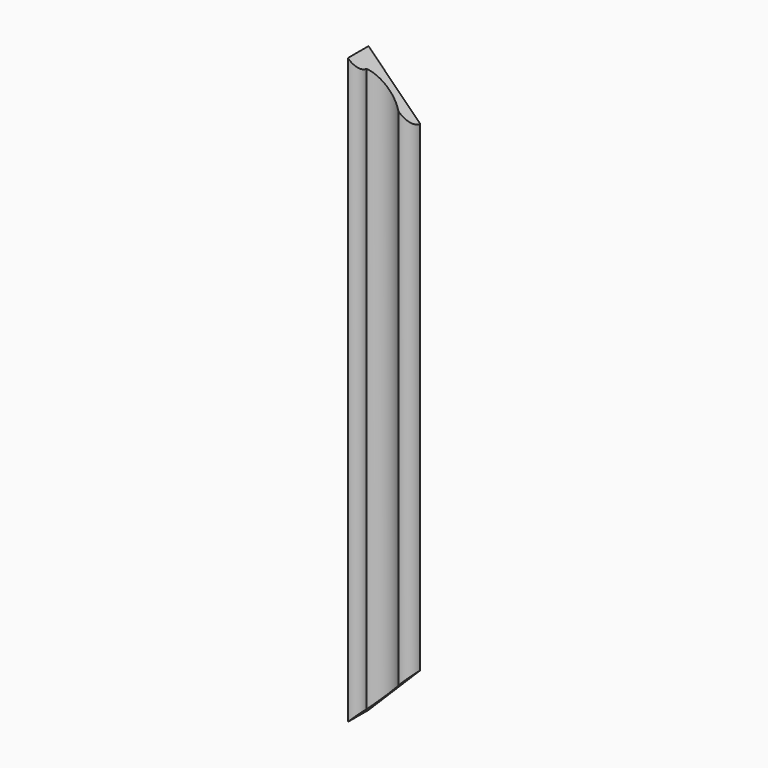
from build123d import *

# Parameters (mm, degrees)
PAD011_DEPTH = 40
PAD010_DEPTH = 40
PAD009_DEPTH = 340


with BuildPart() as body_decoration_left_cut_top:
    # Sketch011 → Pad011 (new body)
    with BuildSketch(Plane(origin=(60, 0, 400), x_dir=(1, 0, 0), z_dir=(0, -1, 0))):
        Polygon((0, 0), (40, -40), (40, 0), align=None)
    extrude(amount=PAD011_DEPTH)


with BuildPart() as body_decoration_left_cut_bottom:
    # Sketch010 → Pad010 (new body)
    with BuildSketch(Plane(origin=(60, 0, 60), x_dir=(1, 0, 0), z_dir=(0, -1, 0))):
        Polygon((0, 0), (40, 40), (40, 0), align=None)
    extrude(amount=PAD010_DEPTH)


with BuildPart() as cut_decoration_left:
    # Sketch009 → Pad009 (new body)
    with BuildSketch(Plane(origin=(60, 0, 60), x_dir=(1, 0, 0), z_dir=(0, 0, 1))):
        with BuildLine():
            Line((30, 0), (0, 0))
            Line((0, -15), (0, 0))
            ThreePointArc((0, -15), (4.242641, -13.242641), (6, -9))
            ThreePointArc((23, -7), (14.080692, -4.435882), (6, -9))
            ThreePointArc((23, -7), (27.949747, -4.949747), (30, 0))
        make_face()
    extrude(amount=PAD009_DEPTH)

    # Cut002: cut Body, Decoration, Left, Cut, Bottom
    add(body_decoration_left_cut_bottom.part, mode=Mode.SUBTRACT)

    # Cut003: cut Body, Decoration, Left, Cut, Top
    add(body_decoration_left_cut_top.part, mode=Mode.SUBTRACT)


solid = cut_decoration_left.part
